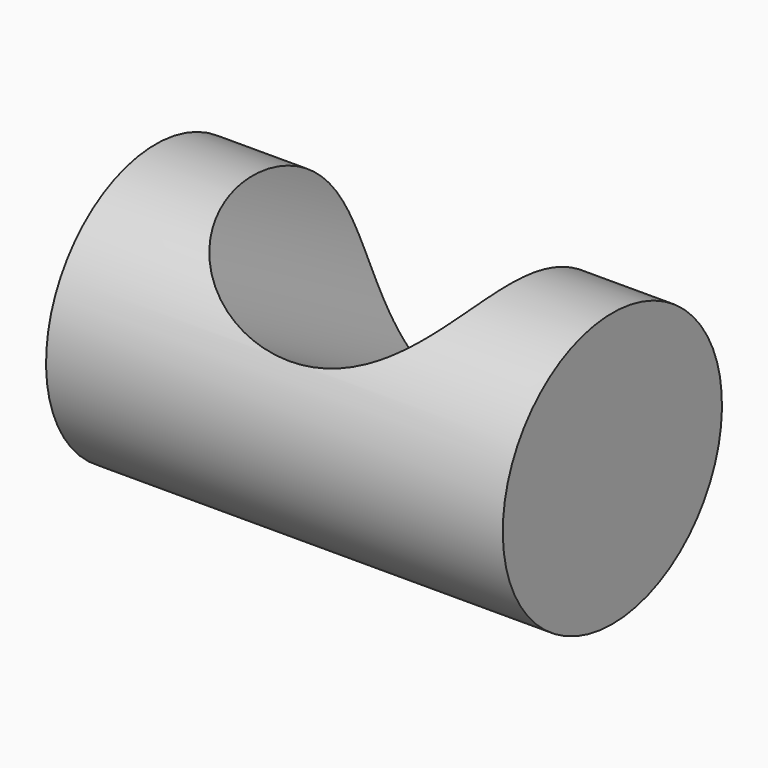
from build123d import *

# Parameters (mm, degrees)
F0_R          = 14.995
F1_DEPTH      = 25
F1_DEPTH_BACK = 25
F2_R          = 15
F3_DEPTH      = 25
F3_DEPTH_BACK = 25
F5_ANGLE      = 180
F7_ANGLE      = 330


with BuildPart() as f1:
    # F0 (on Right) → F1 (new body, two sides)
    with BuildSketch(Plane.YZ) as f1_sk:
        Circle(F0_R)
    extrude(amount=F1_DEPTH)
    extrude(f1_sk.sketch, amount=-F1_DEPTH_BACK)

    # F2 (on Front) → F3 (cut, two sides)
    with BuildSketch(Plane.XZ) as f3_sk:
        with Locations((0, -15)):
            Circle(F2_R)
    extrude(amount=-F3_DEPTH, mode=Mode.SUBTRACT)
    extrude(f3_sk.sketch, amount=F3_DEPTH_BACK, mode=Mode.SUBTRACT)


with BuildPart() as f1_1:
    # F5: moved
    add(f1.part.rotate(Axis((31.3068032265, 0, 0), (1, 0, 0)), F5_ANGLE))


with BuildPart() as f1_2:
    # F7: moved
    add(f1_1.part.rotate(Axis((32.434489578, 0, 0), (1, 0, 0)), F7_ANGLE))


solid = f1_2.part
